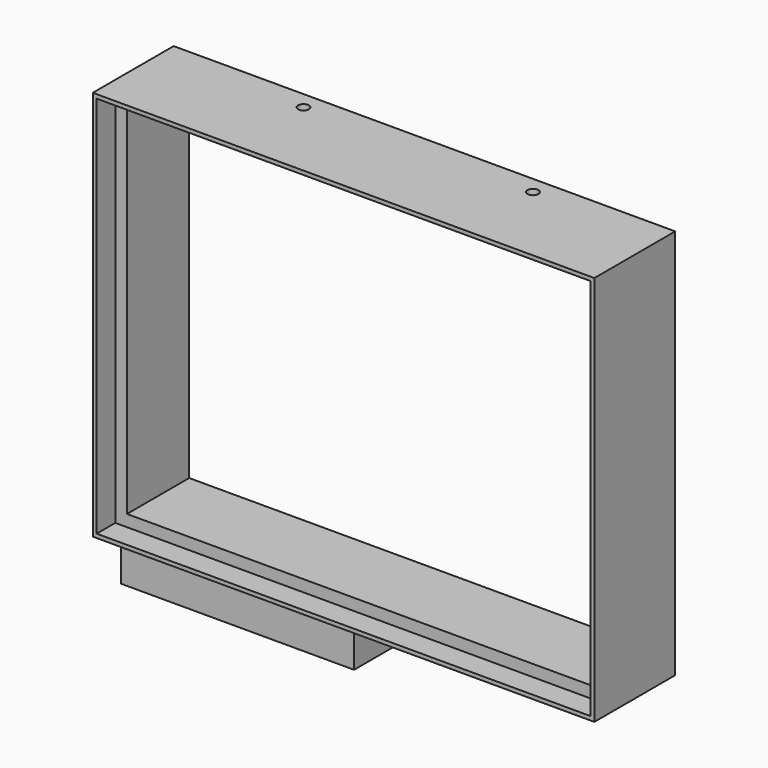
from build123d import *

# Parameters (mm, degrees)
F1_W      = 129
F1_H      = 100.5
F1_W_2    = 127
F1_H_2    = 98.5
F2_DEPTH  = 6
F3_W      = 129
F3_H      = 100.5
F3_W_2    = 121
F3_H_2    = 92.5
F4_DEPTH  = 20
F5_W      = 60
F5_H      = 14.3
F6_DEPTH  = 17
F7_R      = 1.4
F8_DEPTH  = 7.9
F9_R      = 1.4
F10_DEPTH = 5


with BuildPart() as f2:
    # F1 (on Front) → F2 (new body)
    with BuildSketch(Plane.XZ):
        with Locations((1, -2.75)):
            Rectangle(F1_W, F1_H)
        with Locations((1, -2.75)):
            Rectangle(F1_W_2, F1_H_2, mode=Mode.SUBTRACT)
    extrude(amount=F2_DEPTH)

    # F3 (on Front) → F4 (join)
    with BuildSketch(Plane.XZ):
        with Locations((1, -2.75)):
            Rectangle(F3_W, F3_H)
        with Locations((1, -2.75)):
            Rectangle(F3_W_2, F3_H_2, mode=Mode.SUBTRACT)
    extrude(amount=-F4_DEPTH)

    # F5 (on face) → F6 (join)
    with BuildSketch(Plane(origin=(0, 20, 0), x_dir=(-1, 0, 0), z_dir=(0, 1, 0))):
        with Locations((33.5, -60.15)):
            Rectangle(F5_W, F5_H)
    extrude(amount=-F6_DEPTH)

    # F7 (on face) → F8 (cut)
    with BuildSketch(Plane.XY.offset(47.5)):
        with Locations((-26.5, 15.5)):
            Circle(F7_R)
        with Locations((32.5, 15.5)):
            Circle(F7_R)
    extrude(amount=-F8_DEPTH, mode=Mode.SUBTRACT)

    # F9 (on face) → F10 (cut)
    with BuildSketch(Plane(origin=(0, 0, -67.3), x_dir=(1, 0, 0), z_dir=(0, 0, -1))):
        with Locations((-26.5, -15.5)):
            Circle(F9_R)
    extrude(amount=-F10_DEPTH, mode=Mode.SUBTRACT)


solid = f2.part
